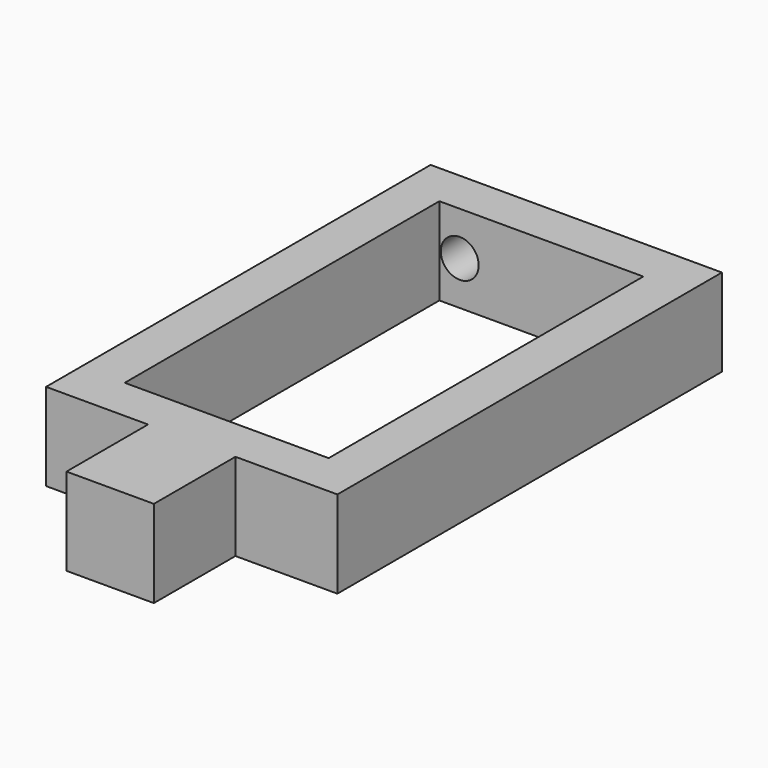
from build123d import *

# Parameters (mm, degrees)
F0_W     = 8.89
F0_H     = 17.145
F1_DEPTH = 3.81
F2_R     = 0.8255
F3_DEPTH = 2.032


with BuildPart() as f1:
    # F0 (on Top) → F1 (new body)
    with BuildSketch(Plane.XY):
        Polygon((-1.905, -13.97), (1.905, -13.97), (1.905, -9.525), (6.35, -9.525), (6.35, 11.43), (-6.35, 11.43), (-6.35, -9.525), (-1.905, -9.525), align=None)
        with Locations((0, 0.9525)):
            Rectangle(F0_W, F0_H, mode=Mode.SUBTRACT)
    extrude(amount=F1_DEPTH)

    # F2 (on face) → F3 (cut)
    with BuildSketch(Plane(origin=(0, 11.43, 0), x_dir=(-1, 0, 0), z_dir=(0, 1, 0))):
        with Locations((-3.556, 1.905)):
            Circle(F2_R)
        with Locations((3.556, 1.905)):
            Circle(F2_R)
    extrude(amount=-F3_DEPTH, mode=Mode.SUBTRACT)


solid = f1.part
